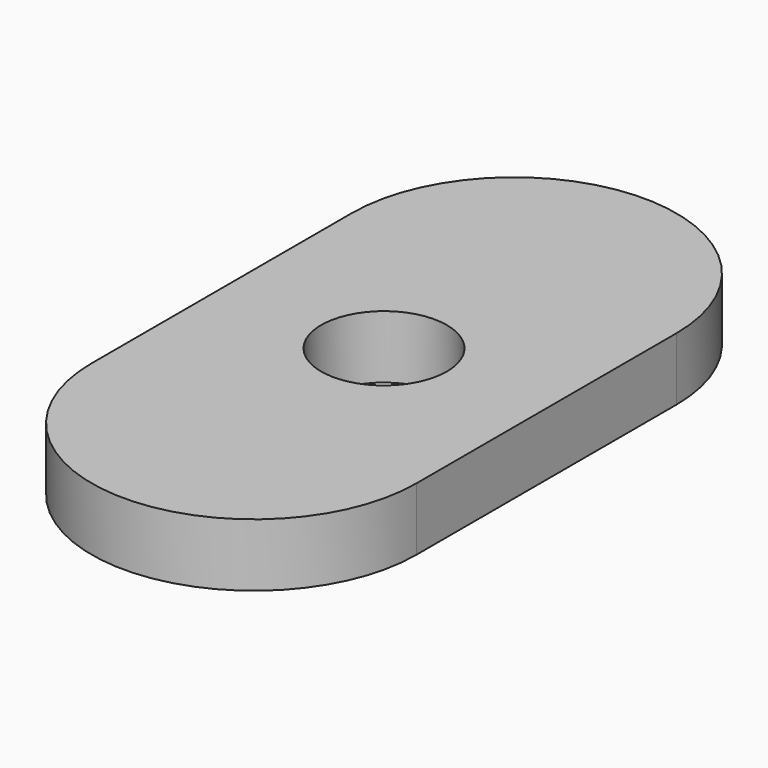
from build123d import *

# Parameters (mm, degrees)
F1_DEPTH = 3
F2_R     = 3
F3_DEPTH = 25


with BuildPart() as f1:
    # F0 (on Top) → F1 (new body)
    with BuildSketch(Plane.XY):
        with BuildLine():
            ThreePointArc((7.75, 7.75), (0, 15.5), (-7.75, 7.75))
            Line((-7.75, 7.75), (-7.75, -7.75))
            ThreePointArc((-7.75, -7.75), (0, -15.5), (7.75, -7.75))
            Line((7.75, -7.75), (7.75, 7.75))
        make_face()
    extrude(amount=F1_DEPTH)

    # F2 (on face) → F3 (cut)
    with BuildSketch(Plane.XY.offset(3)):
        Circle(F2_R)
    extrude(amount=-F3_DEPTH, mode=Mode.SUBTRACT)


solid = f1.part
